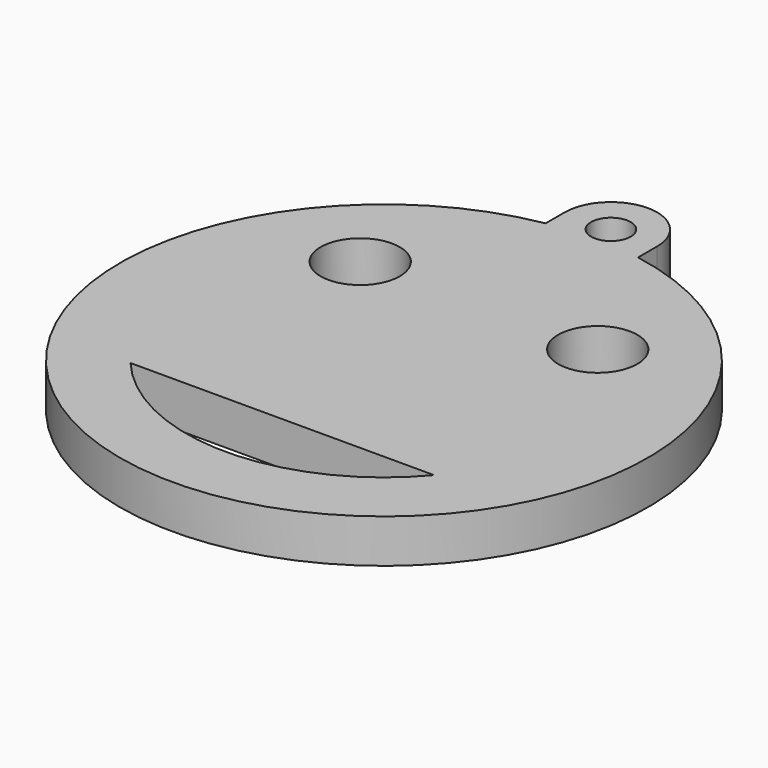
from build123d import *

# Parameters (mm, degrees)
EXTRUDE_DEPTH   = 3.3
SKETCH001_R     = 1.5
POCKET_DEPTH    = 3.301
SKETCH002_R     = 3
POCKET001_DEPTH = 8


with BuildPart() as part:
    # Sketch → Extrude (new body)
    with BuildSketch(Plane.XY):
        with BuildLine():
            ThreePointArc((3.5, 21.5), (0, 25), (-3.5, 21.5))
            Line((-3.5, 21.5), (-3.5, 19.691369))
            ThreePointArc((-3.5, 19.691369), (0, -20), (3.5, 19.691369))
            Line((3.5, 19.691369), (3.5, 21.5))
        make_face()
    extrude(amount=EXTRUDE_DEPTH)

    # Sketch001 (on Face6 of Extrude) → Pocket (cut, through all)
    with BuildSketch(Plane.XY.offset(3.3)):
        with Locations((0, 21.5)):
            Circle(SKETCH001_R)
    extrude(amount=-POCKET_DEPTH, mode=Mode.SUBTRACT)

    # Sketch002 (on Face6 of BaseFeature) → Pocket001 (cut)
    with BuildSketch(Plane.XY.offset(3.3)):
        with Locations((-9, 9)):
            Circle(SKETCH002_R)
        with Locations((9, 9)):
            Circle(SKETCH002_R)
        with BuildLine():
            ThreePointArc((-11.5, -9.63068), (0, -15), (11.5, -9.63068))
            Line((-11.5, -9.63068), (11.5, -9.63068))
        make_face()
    extrude(amount=-POCKET001_DEPTH, mode=Mode.SUBTRACT)


solid = part.part
